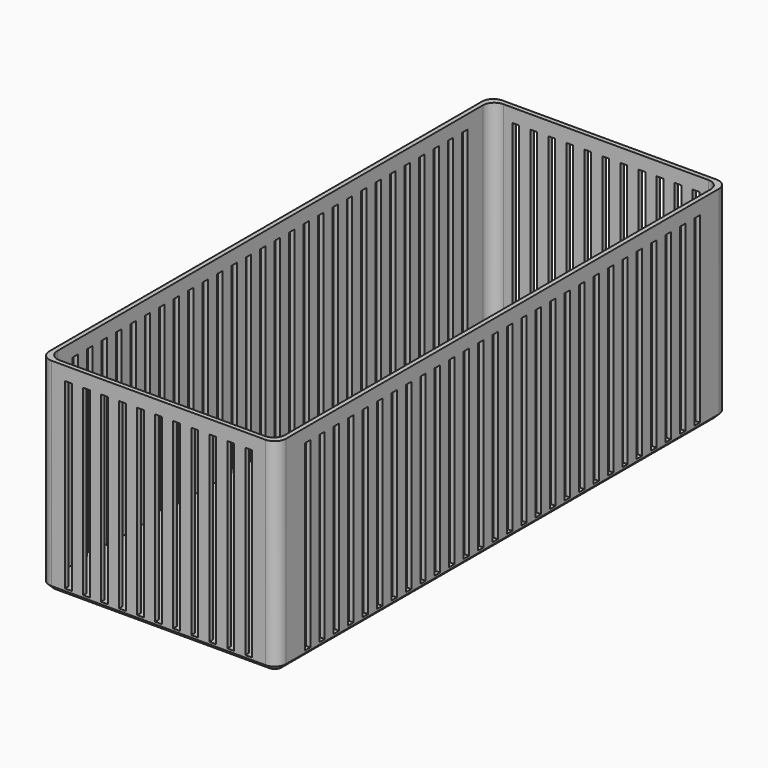
from build123d import *

# Parameters (mm, degrees)
F0_W      = 105
F0_H      = 250
F1_DEPTH  = 90
F2_W      = 101
F2_H      = 246
F3_DEPTH  = 87
F4_R      = 5
F5_R      = 5
F6_SIZE   = 2
F7_W      = 3
F7_H      = 81
F8_DEPTH  = 300
F9_W      = 3
F9_H      = 81
F10_DEPTH = 105


with BuildPart() as f1:
    # F0 (on Top) → F1 (new body)
    with BuildSketch(Plane.XY):
        with Locations((-4.369723, 72.974855)):
            Rectangle(F0_W, F0_H)
    extrude(amount=F1_DEPTH)

    # F2 (on face) → F3 (cut)
    with BuildSketch(Plane.XY.offset(90)):
        with Locations((-4.369723, 72.974855)):
            Rectangle(F2_W, F2_H)
    extrude(amount=-F3_DEPTH, mode=Mode.SUBTRACT)

    # F4
    f4_edges = [f1.edges().sort_by_distance(p)[0] for p in [
        (48.130277, -52.025145, 45),
        (-56.869723, -52.025145, 45),
        (48.130277, 197.974855, 45),
        (-56.869723, 197.974855, 45),
    ]]
    fillet(f4_edges, radius=F4_R)

    # F5
    f5_edges = [f1.edges().sort_by_distance(p)[0] for p in [
        (-54.869723, 195.974855, 46.5),
        (46.130277, 195.974855, 46.5),
        (-54.869723, -50.025145, 46.5),
        (46.130277, -50.025145, 46.5),
    ]]
    fillet(f5_edges, radius=F5_R)

    # F6
    f6_edges = [f1.edges().sort_by_distance(p)[0] for p in [
        (-4.369723, 197.974855, 0),
        (46.665811, 196.510389, 0),
        (-55.405257, 196.510389, 0),
        (48.130277, 72.974855, 0),
        (-56.869723, 72.974855, 0),
        (46.665811, -50.560679, 0),
        (-55.405257, -50.560679, 0),
        (-4.369723, -52.025145, 0),
    ]]
    chamfer(f6_edges, length=F6_SIZE)

    # F7 (on face) → F8 (cut)
    with BuildSketch(Plane.XZ.offset(52.025145)):
        with Locations((-44.369723, 43.5)):
            Rectangle(F7_W, F7_H)
        with Locations((-36.369723, 43.5)):
            Rectangle(F7_W, F7_H)
        with Locations((-28.369723, 43.5)):
            Rectangle(F7_W, F7_H)
        with Locations((-20.369723, 43.5)):
            Rectangle(F7_W, F7_H)
        with Locations((-12.369723, 43.5)):
            Rectangle(F7_W, F7_H)
        with Locations((-4.369723, 43.5)):
            Rectangle(F7_W, F7_H)
        with Locations((3.630277, 43.5)):
            Rectangle(F7_W, F7_H)
        with Locations((11.630277, 43.5)):
            Rectangle(F7_W, F7_H)
        with Locations((19.630277, 43.5)):
            Rectangle(F7_W, F7_H)
        with Locations((27.630277, 43.5)):
            Rectangle(F7_W, F7_H)
        with Locations((35.630277, 43.5)):
            Rectangle(F7_W, F7_H)
    extrude(amount=-F8_DEPTH, mode=Mode.SUBTRACT)

    # F9 (on face) → F10 (cut)
    with BuildSketch(Plane(origin=(-56.869723, 0, 0), x_dir=(0, -1, 0), z_dir=(-1, 0, 0))):
        with Locations((-180.974855, 43.5)):
            Rectangle(F9_W, F9_H)
        with Locations((-172.974855, 43.5)):
            Rectangle(F9_W, F9_H)
        with Locations((-164.974855, 43.5)):
            Rectangle(F9_W, F9_H)
        with Locations((-156.974855, 43.5)):
            Rectangle(F9_W, F9_H)
        with Locations((-148.974855, 43.5)):
            Rectangle(F9_W, F9_H)
        with Locations((-140.974855, 43.5)):
            Rectangle(F9_W, F9_H)
        with Locations((-132.974855, 43.5)):
            Rectangle(F9_W, F9_H)
        with Locations((-124.974855, 43.5)):
            Rectangle(F9_W, F9_H)
        with Locations((-116.974855, 43.5)):
            Rectangle(F9_W, F9_H)
        with Locations((-108.974855, 43.5)):
            Rectangle(F9_W, F9_H)
        with Locations((-100.974855, 43.5)):
            Rectangle(F9_W, F9_H)
        with Locations((-92.974855, 43.5)):
            Rectangle(F9_W, F9_H)
        with Locations((-84.974855, 43.5)):
            Rectangle(F9_W, F9_H)
        with Locations((-76.974855, 43.5)):
            Rectangle(F9_W, F9_H)
        with Locations((-68.974855, 43.5)):
            Rectangle(F9_W, F9_H)
        with Locations((-60.974855, 43.5)):
            Rectangle(F9_W, F9_H)
        with Locations((-52.974855, 43.5)):
            Rectangle(F9_W, F9_H)
        with Locations((-44.974855, 43.5)):
            Rectangle(F9_W, F9_H)
        with Locations((-36.974855, 43.5)):
            Rectangle(F9_W, F9_H)
        with Locations((-28.974855, 43.5)):
            Rectangle(F9_W, F9_H)
        with Locations((-20.974855, 43.5)):
            Rectangle(F9_W, F9_H)
        with Locations((-12.974855, 43.5)):
            Rectangle(F9_W, F9_H)
        with Locations((-4.974855, 43.5)):
            Rectangle(F9_W, F9_H)
        with Locations((3.025145, 43.5)):
            Rectangle(F9_W, F9_H)
        with Locations((11.025145, 43.5)):
            Rectangle(F9_W, F9_H)
        with Locations((19.025145, 43.5)):
            Rectangle(F9_W, F9_H)
        with Locations((27.025145, 43.5)):
            Rectangle(F9_W, F9_H)
        with Locations((35.025145, 43.5)):
            Rectangle(F9_W, F9_H)
    extrude(amount=-F10_DEPTH, mode=Mode.SUBTRACT)


solid = f1.part
